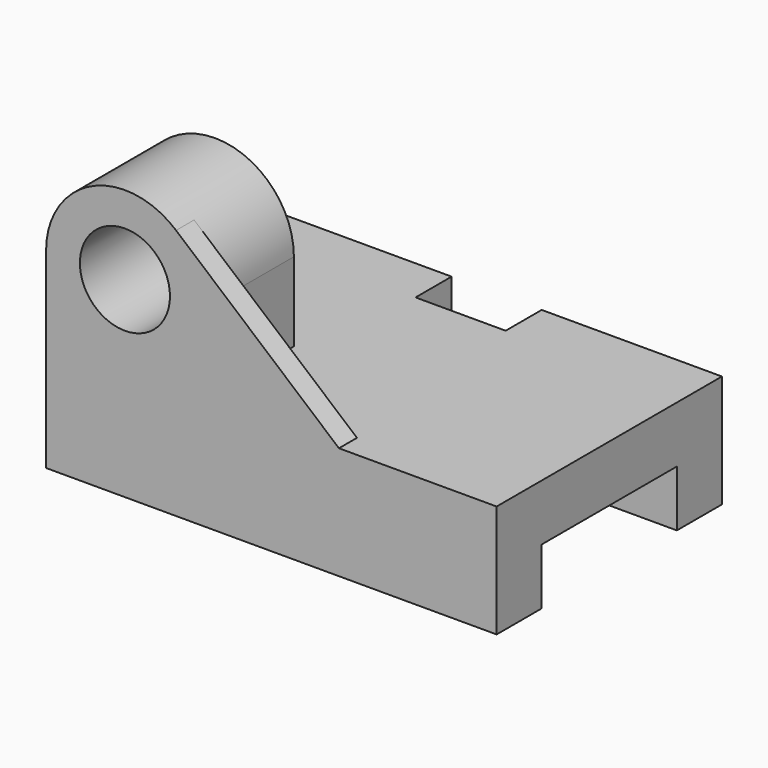
from build123d import *

# Parameters (mm, degrees)
PAD_DEPTH         = 50
SKETCH001_R       = 20
POCKET_DEPTH      = 50.001
POCKET_DEPTH_BACK = 0.001
PAD001_DEPTH      = 10
SKETCH003_W       = 200
SKETCH003_H       = 125
PAD002_DEPTH      = 50
SKETCH004_W       = 25
SKETCH004_H       = 75
POCKET001_DEPTH   = 200.001
POCKET002_DEPTH   = 40


with BuildPart() as part:
    # Sketch → Pad (new body)
    with BuildSketch(Plane.XZ):
        with BuildLine():
            Line((-35, -35), (35, -35))
            Line((35, -35), (35, 0))
            ThreePointArc((35, 0), (0, 35), (-35, 0))
            Line((-35, 0), (-35, -35))
        make_face()
    extrude(amount=PAD_DEPTH)

    # Sketch001 (on Face6 of Pad) → Pocket (cut, two sides)
    with BuildSketch(Plane.XZ.offset(50)) as pocket_sk:
        Circle(SKETCH001_R)
    extrude(amount=-POCKET_DEPTH, mode=Mode.SUBTRACT)
    extrude(pocket_sk.sketch, amount=POCKET_DEPTH_BACK, mode=Mode.SUBTRACT)

    # Sketch002 (on Face5 of Pocket) → Pad001 (join)
    with BuildSketch(Plane.XZ.offset(50)):
        Polygon((35, -35), (95, -35), (22.707273, 26.634184), align=None)
    extrude(amount=-PAD001_DEPTH)

    # Sketch003 (on Face8 of Pad001) → Pad002 (join)
    with BuildSketch(Plane(origin=(0, 0, -35), x_dir=(1, 0, 0), z_dir=(0, 0, -1))):
        with Locations((65, -12.5)):
            Rectangle(SKETCH003_W, SKETCH003_H)
    extrude(amount=PAD002_DEPTH)

    # Sketch004 (on Face10 of Pad002) → Pocket001 (cut, through all)
    with BuildSketch(Plane(origin=(165, 0, 0), x_dir=(0, 0, 1), z_dir=(1, 0, 0))):
        with Locations((-72.5, -12.5)):
            Rectangle(SKETCH004_W, SKETCH004_H)
    extrude(amount=-POCKET001_DEPTH, mode=Mode.SUBTRACT)

    # Sketch005 (on Face16 of Pocket001) → Pocket002 (cut)
    with BuildSketch(Plane(origin=(85, 0, 0), x_dir=(0, 0, 1), z_dir=(1, 0, 0))):
        Polygon((-35, -55), (-35, -75), (-85, -75), align=None)
    extrude(amount=-POCKET002_DEPTH, mode=Mode.SUBTRACT)


solid = part.part
